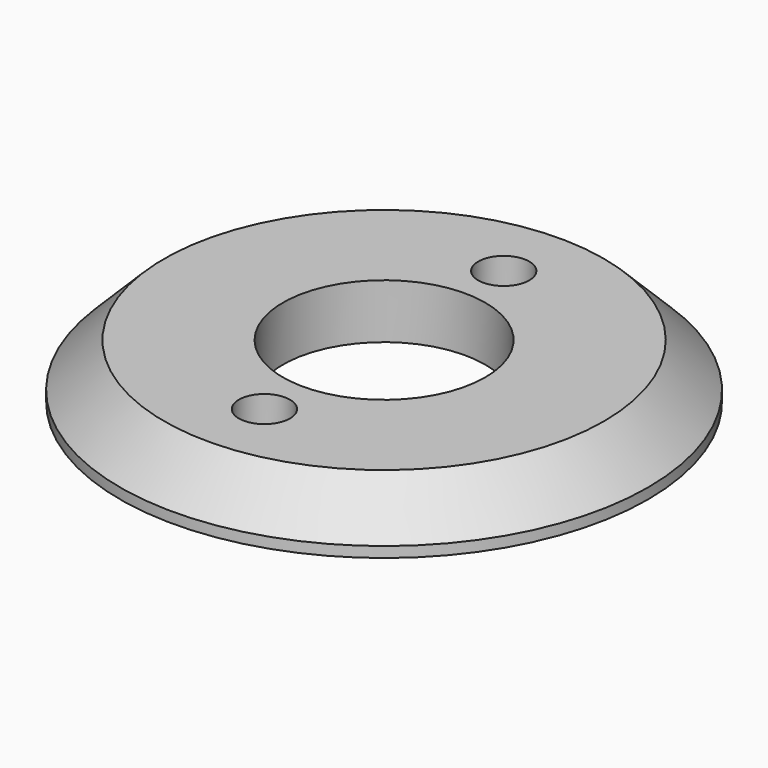
from build123d import *

# Parameters (mm, degrees)
F0_R     = 30
F0_R_2   = 2.9
F0_R_3   = 11.5
F1_DEPTH = 6.2
F2_SIZE  = 5


with BuildPart() as f1:
    # F0 (on Top) → F1 (new body)
    with BuildSketch(Plane.XY):
        Circle(F0_R)
        with Locations((0, -17)):
            Circle(F0_R_2, mode=Mode.SUBTRACT)
        Circle(F0_R_3, mode=Mode.SUBTRACT)
        with Locations((0, 17)):
            Circle(F0_R_2, mode=Mode.SUBTRACT)
    extrude(amount=F1_DEPTH)

    # F2
    f2_edges = [f1.edges().sort_by_distance(p)[0] for p in [
        (-30, 0, 6.2),
    ]]
    chamfer(f2_edges, length=F2_SIZE)


solid = f1.part
